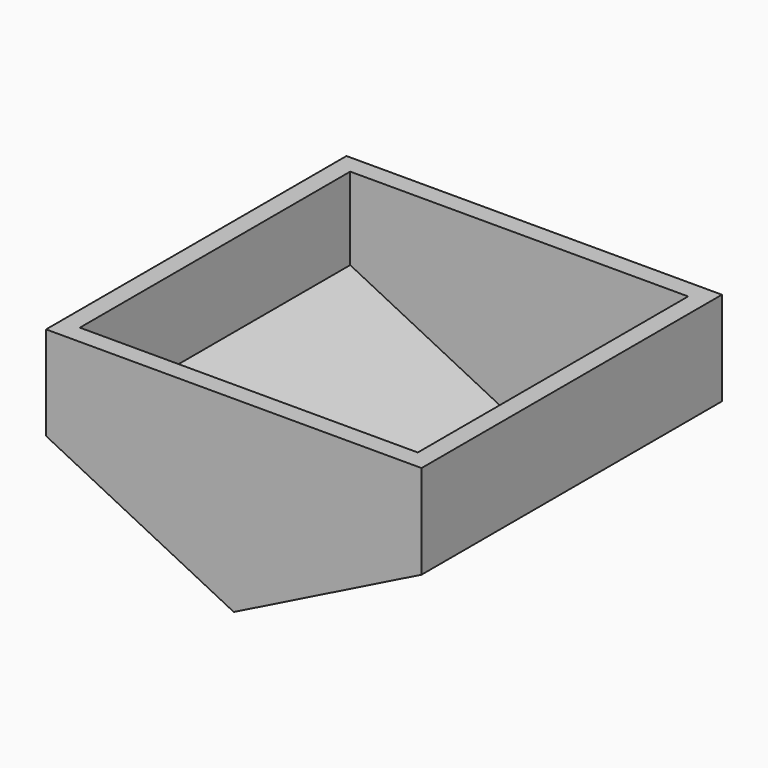
from build123d import *

# Parameters (mm, degrees)
F1_DEPTH = 50.8
F2_T     = -2.54


with BuildPart() as f1:
    # F0 (on Front) → F1 (new body)
    with BuildSketch(Plane.XZ):
        Polygon((0, -12.702317), (0, 0), (0, 12.702317), (-25.4, 12.702317), (-25.4, 0), align=None)
        Polygon((0, 12.702317), (0, 0), (0, -12.702317), (25.4, 0), (25.4, 12.702317), align=None)
    extrude(amount=F1_DEPTH)

    # F2
    f2_openings = [f1.faces().sort_by_distance(p)[0] for p in [
        (0, -25.4, 12.702317),
    ]]
    offset(amount=F2_T, openings=f2_openings)


solid = f1.part
